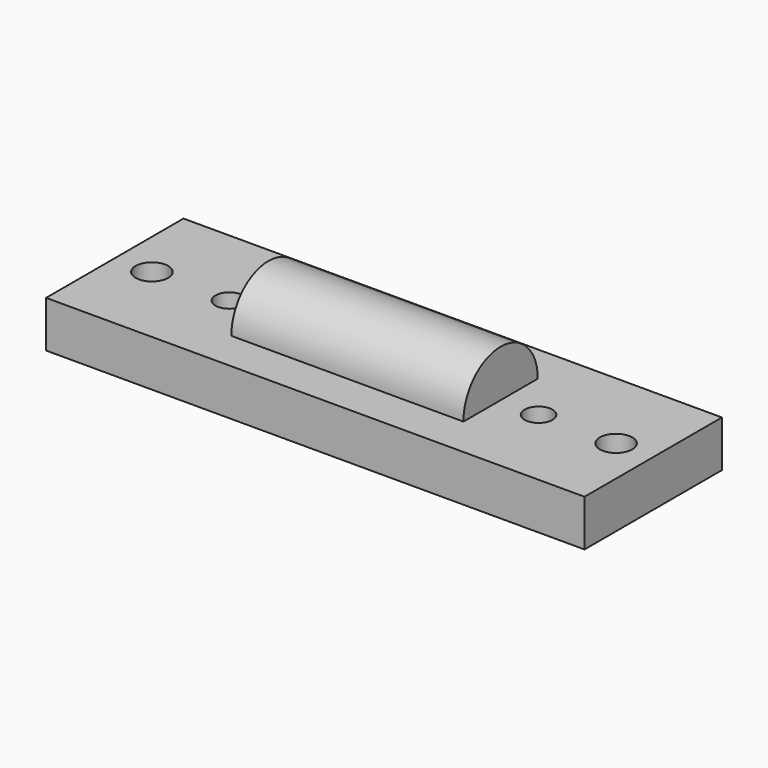
from build123d import *

# Parameters (mm, degrees)
F0_W     = 38
F0_H     = 18.5
F0_R     = 1.5
F0_W_2   = 10
F0_R_2   = 1.75
F1_DEPTH = 5
F2_W     = 25
F2_H     = 18.5
F3_DEPTH = 9.25
F5_DEPTH = 25


with BuildPart() as f1:
    # F0 (on Top) → F1 (new body)
    with BuildSketch(Plane.XY):
        Rectangle(F0_W, F0_H)
        with Locations((-16.65, 0)):
            Circle(F0_R, mode=Mode.SUBTRACT)
        with Locations((16.65, 0)):
            Circle(F0_R, mode=Mode.SUBTRACT)
        with Locations((24, 0)):
            Rectangle(F0_W_2, F0_H)
        with Locations((25, 0)):
            Circle(F0_R_2, mode=Mode.SUBTRACT)
        with Locations((-24, 0)):
            Rectangle(F0_W_2, F0_H)
        with Locations((-25, 0)):
            Circle(F0_R_2, mode=Mode.SUBTRACT)
    extrude(amount=F1_DEPTH)

    # F2 (on face) → F3 (join)
    with BuildSketch(Plane.XY.offset(5)):
        Rectangle(F2_W, F2_H)
    extrude(amount=F3_DEPTH)

    # F4 (on face) → F5 (cut)
    with BuildSketch(Plane.YZ.offset(12.5)):
        with BuildLine():
            ThreePointArc((-4.923553, 5), (0.07586, 10.076588), (5.075274, 5))
            Line((5.075274, 5), (9.25, 5))
            Line((9.25, 5), (9.25, 14.25))
            Line((9.25, 14.25), (-9.25, 14.25))
            Line((-9.25, 14.25), (-9.25, 5))
            Line((-9.25, 5), (-4.923553, 5))
        make_face()
    extrude(amount=-F5_DEPTH, mode=Mode.SUBTRACT)


solid = f1.part
